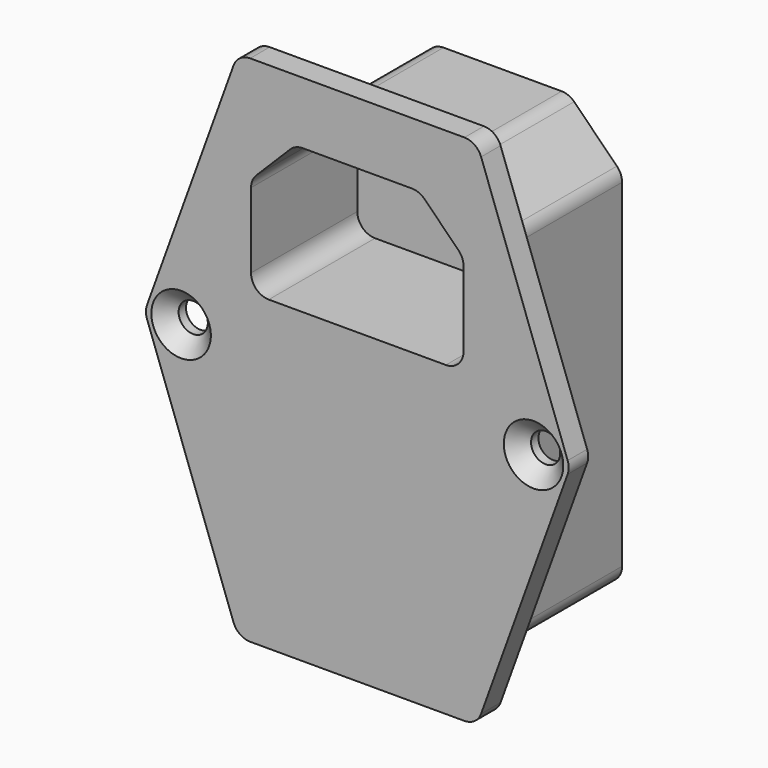
from build123d import *

# Parameters (mm, degrees)
F1_DEPTH       = 2.75
F2_DEPTH       = 17.75
F4_D           = 3.3
F4_CSINK_D     = 6.72
F4_CSINK_ANGLE = 90
F6_DEPTH       = 15
F7_R           = 2


with BuildPart() as f1:
    # F0 (on Front) → F1 (new body)
    with BuildSketch(Plane.XZ):
        Polygon((13.5, 52.5), (0, 52.5), (-13.5, 52.5), (-24, 23.5), (-13.5, -5.5), (0, -5.5), (13.5, -5.5), (24, 23.5), align=None)
        Polygon((13.5, 0), (0, 0), (-13.5, 0), (-13.5, 41), (-7.5, 47), (0, 47), (7.5, 47), (13.5, 41), align=None, mode=Mode.SUBTRACT)
        Polygon((-13.5, 0), (0, 0), (13.5, 0), (13.5, 41), (7.5, 47), (0, 47), (-7.5, 47), (-13.5, 41), align=None)
    extrude(amount=F1_DEPTH)

    # F0 (on Front) → F2 (join)
    with BuildSketch(Plane.XZ):
        Polygon((-13.5, 0), (0, 0), (13.5, 0), (13.5, 41), (7.5, 47), (0, 47), (-7.5, 47), (-13.5, 41), align=None)
    extrude(amount=-F2_DEPTH)

    # F4 (through all)
    with Locations(Plane.XZ.offset(2.75)):
        with Locations((-19.9, 23.5), (19.9, 23.5)):
            CounterSinkHole(F4_D / 2, F4_CSINK_D / 2, counter_sink_angle=F4_CSINK_ANGLE)

    # F5 (on face) → F6 (cut)
    with BuildSketch(Plane.XZ.offset(2.75)):
        Polygon((7, 45.5), (0, 45.5), (-7, 45.5), (-12, 40.5), (-12, 29.2), (0, 29.2), (12, 29.2), (12, 40.5), align=None)
    extrude(amount=-F6_DEPTH, mode=Mode.SUBTRACT)

    # F7
    f7_edges = [f1.edges().sort_by_distance(p)[0] for p in [
        (13.5, -1.375, 52.5),
        (-13.5, -1.375, 52.5),
        (-7.5, 8.875, 47),
        (-13.5, 8.875, 41),
        (7.5, 8.875, 47),
        (13.5, 8.875, 41),
        (-24, -1.375, 23.5),
        (-13.5, -1.375, -5.5),
        (13.5, -1.375, -5.5),
        (24, -1.375, 23.5),
        (13.5, 8.875, 0),
        (-13.5, 8.875, 0),
        (-12, 4.75, 29.2),
        (12, 4.75, 29.2),
        (12, 4.75, 40.5),
        (7, 4.75, 45.5),
        (-12, 4.75, 40.5),
        (-7, 4.75, 45.5),
    ]]
    fillet(f7_edges, radius=F7_R)


solid = f1.part
